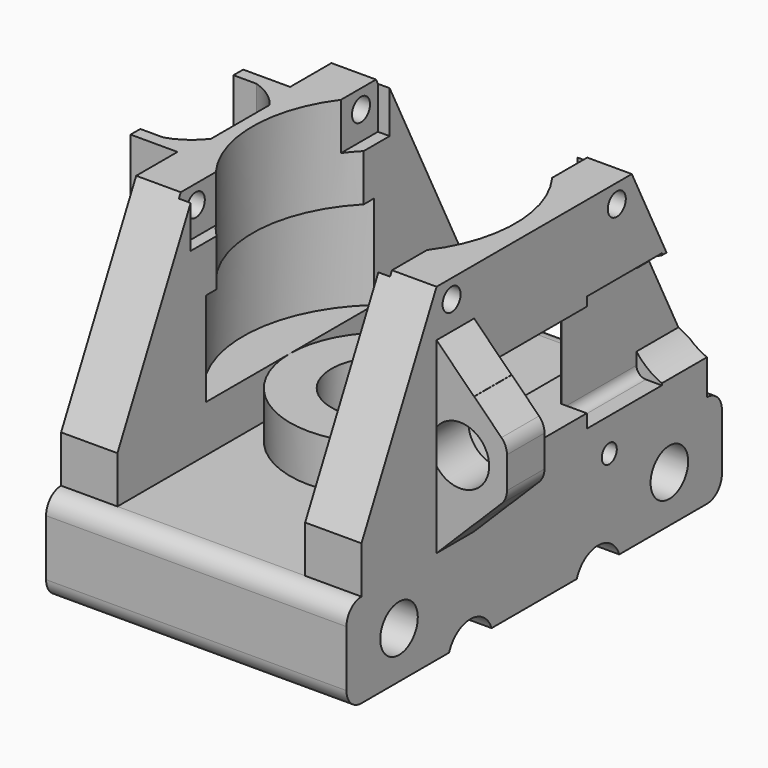
from build123d import *

# Parameters (mm, degrees)
CYLINDER1321_R            = 1.2
CYLINDER1321_DEPTH        = 11
CYLINDER1322_R            = 1.2
CYLINDER1322_DEPTH        = 11
CYLINDER1315_R            = 1.2
CYLINDER1315_DEPTH        = 11
CYLINDER1316_R            = 1.2
CYLINDER1316_DEPTH        = 11
BOX544_W                  = 22.5
BOX544_H                  = 26.5
BOX544_DEPTH              = 5
CYLINDER1311_R            = 14
CYLINDER1311_DEPTH        = 19
CYLINDER1235_R            = 1
CYLINDER1235_DEPTH        = 5
CYLINDER1226_R            = 1
CYLINDER1226_DEPTH        = 11
CYLINDER1225_R            = 1
CYLINDER1225_DEPTH        = 11
BOX510_W                  = 10.4
BOX510_H                  = 12.4
BOX510_DEPTH              = 27
FILLET398_R               = 1
CYLINDER1204_R            = 8
CYLINDER1204_DEPTH        = 27
CYLINDER1206_R            = 6.5
CYLINDER1206_DEPTH        = 17
CYLINDER1205_R            = 8
CYLINDER1205_DEPTH        = 17
CYLINDER1207_R            = 8
CYLINDER1207_DEPTH        = 27
CUT014249_PLACEMENT_ANGLE = 180
CYLINDER1215_R            = 2
CYLINDER1215_DEPTH        = 16
BOX513_W                  = 6
BOX513_H                  = 15
BOX513_DEPTH              = 21
CHAMFER007_SIZE           = 1.5
CYLINDER1213_R            = 5.5
CYLINDER1213_DEPTH        = 16
CYLINDER1203_R            = 15
CYLINDER1203_DEPTH        = 10
BOX509_W                  = 6
BOX509_H                  = 46
BOX509_DEPTH              = 25
CHAMFER006_1_SIZE2        = 10
CHAMFER006_1_SIZE         = 20
CHAMFER006_2_SIZE2        = 10
CHAMFER006_2_SIZE         = 20
CYLINDER1297_R            = 4
CYLINDER1297_DEPTH        = 8
CYLINDER1296_R            = 4
CYLINDER1296_DEPTH        = 8
CYLINDER1295_R            = 2.5
CYLINDER1295_DEPTH        = 60
CYLINDER1294_R            = 2.5
CYLINDER1294_DEPTH        = 60
CYLINDER1289_R            = 3
CYLINDER1289_DEPTH        = 33.5
CYLINDER1287_R            = 5.6
CYLINDER1287_DEPTH        = 4.5
CYLINDER1288_R            = 10
CYLINDER1288_DEPTH        = 5
CYLINDER1285_R            = 3
CYLINDER1285_DEPTH        = 60
CYLINDER1284_R            = 3
CYLINDER1284_DEPTH        = 60
CYLINDER1214_R            = 5.5
CYLINDER1214_DEPTH        = 16
BOX_W                     = 32
BOX_H                     = 50
BOX_DEPTH                 = 10
FILLET413_R               = 2
CYLINDER1218_R            = 3.1
CYLINDER1218_DEPTH        = 5
BOX511_W                  = 10.4
BOX511_H                  = 12.4
BOX511_DEPTH              = 27
FILLET399_R               = 1
CYLINDER1208_R            = 8
CYLINDER1208_DEPTH        = 27
CYLINDER1210_R            = 6.5
CYLINDER1210_DEPTH        = 17
CYLINDER1209_R            = 8
CYLINDER1209_DEPTH        = 17
CYLINDER1211_R            = 8
CYLINDER1211_DEPTH        = 27
CUT014252_PLACEMENT_ANGLE = 90
BOX508_W                  = 22
BOX508_H                  = 15
BOX508_DEPTH              = 10
CYLINDER1216_R            = 15
CYLINDER1216_DEPTH        = 10
BOX506_W                  = 6
BOX506_H                  = 46
BOX506_DEPTH              = 25
CHAMFER005_1_SIZE2        = 10
CHAMFER005_1_SIZE         = 20
CHAMFER005_2_SIZE2        = 10
CHAMFER005_2_SIZE         = 20
BOX514_W                  = 7.5
BOX514_H                  = 5
BOX514_DEPTH              = 12
CHAMFER038_SIZE           = 3.99
CHAMFER039_SIZE           = 3.49
FILLET414_R               = 2


with BuildPart() as cylinder1321:
    # Cylinder1321 → Cylinder1321 (new body)
    with BuildSketch(Plane(origin=(439, 96, 121), x_dir=(0, 0, -1), z_dir=(1, 0, 0))):
        Circle(CYLINDER1321_R)
    extrude(amount=CYLINDER1321_DEPTH)


with BuildPart() as fusion248002050193:
    # Cylinder1322 → Cylinder1322 (new body)
    with BuildSketch(Plane(origin=(439, 74, 121), x_dir=(0, 0, -1), z_dir=(1, 0, 0))):
        Circle(CYLINDER1322_R)
    extrude(amount=CYLINDER1322_DEPTH)

    # Fusion248002050193: union Cylinder1321
    add(cylinder1321.part)


with BuildPart() as fusion248002050193_1:
    # Fusion248002050193 placement: moved
    add(fusion248002050193.part.moved(Location((28, 0, 7))))


with BuildPart() as cylinder1315:
    # Cylinder1315 → Cylinder1315 (new body)
    with BuildSketch(Plane(origin=(439, 96, 121), x_dir=(0, 0, -1), z_dir=(1, 0, 0))):
        Circle(CYLINDER1315_R)
    extrude(amount=CYLINDER1315_DEPTH)


with BuildPart() as fusion248002050194:
    # Cylinder1316 → Cylinder1316 (new body)
    with BuildSketch(Plane(origin=(439, 74, 121), x_dir=(0, 0, -1), z_dir=(1, 0, 0))):
        Circle(CYLINDER1316_R)
    extrude(amount=CYLINDER1316_DEPTH)

    # Fusion248002050189: union Cylinder1315
    add(cylinder1315.part)


with BuildPart() as fusion248002050194_1:
    # Fusion248002050189 placement: moved
    add(fusion248002050194.part.moved(Location((7, 0, 7))))

    # Fusion248002050194: union Fusion248002050193
    add(fusion248002050193_1.part)


with BuildPart() as cube770:
    # Box544 → Box544 (new body)
    with BuildSketch(Plane(origin=(450.75, 71.75, 125), x_dir=(1, 0, 0), z_dir=(0, 0, 1))):
        with Locations((11.25, 13.25)):
            Rectangle(BOX544_W, BOX544_H)
    extrude(amount=BOX544_DEPTH)


with BuildPart() as fusion248002050202:
    # Cylinder1311 → Cylinder1311 (new body)
    with BuildSketch(Plane(origin=(462, 85, 112), x_dir=(1, 0, 0), z_dir=(0, 0, 1))):
        Circle(CYLINDER1311_R)
    extrude(amount=CYLINDER1311_DEPTH)

    # Fusion248002050202: union Cube770
    add(cube770.part)


with BuildPart() as cylinder1235:
    # Cylinder1235 → Cylinder1235 (new body)
    with BuildSketch(Plane(origin=(473, 95, 105), x_dir=(0, 0, -1), z_dir=(1, 0, 0))):
        Circle(CYLINDER1235_R)
    extrude(amount=CYLINDER1235_DEPTH)


with BuildPart() as cylinder1226:
    # Cylinder1226 → Cylinder1226 (new body)
    with BuildSketch(Plane(origin=(439, 96, 121), x_dir=(0, 0, -1), z_dir=(1, 0, 0))):
        Circle(CYLINDER1226_R)
    extrude(amount=CYLINDER1226_DEPTH)


with BuildPart() as fusion248002050135:
    # Cylinder1225 → Cylinder1225 (new body)
    with BuildSketch(Plane(origin=(439, 74, 121), x_dir=(0, 0, -1), z_dir=(1, 0, 0))):
        Circle(CYLINDER1225_R)
    extrude(amount=CYLINDER1225_DEPTH)

    # Fusion248002050135: union Cylinder1226
    add(cylinder1226.part)


with BuildPart() as fillet398:
    # Box510 → Box510 (new body)
    with BuildSketch(Plane(origin=(-5.2, -6.2, 0), x_dir=(1, 0, 0), z_dir=(0, 0, 1))):
        with Locations((5.2, 6.2)):
            Rectangle(BOX510_W, BOX510_H)
    extrude(amount=BOX510_DEPTH)

    # Fillet398
    fillet398_edges = [fillet398.edges().sort_by_distance(p)[0] for p in [
        (-5.2, -6.2, 13.5),
        (-5.2, 6.2, 13.5),
        (5.2, -6.2, 13.5),
        (5.2, 6.2, 13.5),
    ]]
    fillet(fillet398_edges, radius=FILLET398_R)


with BuildPart() as cut014248:
    # Cylinder1204 → Cylinder1204 (new body)
    with BuildSketch(Plane.XY):
        Circle(CYLINDER1204_R)
    extrude(amount=CYLINDER1204_DEPTH)

    # Cut014248: cut Fillet398
    add(fillet398.part, mode=Mode.SUBTRACT)


with BuildPart() as cylinder1417:
    # Cylinder1206 → Cylinder1206 (new body)
    with BuildSketch(Plane.XY):
        Circle(CYLINDER1206_R)
    extrude(amount=CYLINDER1206_DEPTH)


with BuildPart() as fusion248002050126:
    # Cylinder1205 → Cylinder1205 (new body)
    with BuildSketch(Plane.XY):
        Circle(CYLINDER1205_R)
    extrude(amount=CYLINDER1205_DEPTH)

    # Cut014247: cut Cylinder1417
    add(cylinder1417.part, mode=Mode.SUBTRACT)

    # Fusion248002050126: union Cut014248
    add(cut014248.part)


with BuildPart() as bucket_opening_motor001:
    # Cylinder1207 → Cylinder1207 (new body)
    with BuildSketch(Plane.XY):
        Circle(CYLINDER1207_R)
    extrude(amount=CYLINDER1207_DEPTH)

    # Cut014249: cut Fusion248002050126
    add(fusion248002050126.part, mode=Mode.SUBTRACT)


with BuildPart() as bucket_opening_motor001_1:
    # Cut014249 placement: moved
    add(bucket_opening_motor001.part.moved(Location((441.5, 85, 137))).rotate(Axis((441.5, 85, 137), (1, 0, 0)), CUT014249_PLACEMENT_ANGLE))


with BuildPart() as cylinder1215:
    # Cylinder1215 → Cylinder1215 (new body)
    with BuildSketch(Plane(origin=(441.5, 85, 94), x_dir=(1, 0, 0), z_dir=(0, 0, 1))):
        Circle(CYLINDER1215_R)
    extrude(amount=CYLINDER1215_DEPTH)


with BuildPart() as cut014257:
    # Box513 → Box513 (new body)
    with BuildSketch(Plane(origin=(441, 77.5, 109), x_dir=(1, 0, 0), z_dir=(0, 0, 1))):
        with Locations((3, 7.5)):
            Rectangle(BOX513_W, BOX513_H)
    extrude(amount=BOX513_DEPTH)

    # Chamfer007
    chamfer007_edges = [cut014257.edges().sort_by_distance(p)[0] for p in [
        (444, 77.5, 109),
        (444, 92.5, 109),
    ]]
    chamfer(chamfer007_edges, length=CHAMFER007_SIZE)

    # Cut014257: cut Cylinder1215
    add(cylinder1215.part, mode=Mode.SUBTRACT)


with BuildPart() as cylinder1213:
    # Cylinder1213 → Cylinder1213 (new body)
    with BuildSketch(Plane(origin=(441.5, 85, 94), x_dir=(1, 0, 0), z_dir=(0, 0, 1))):
        Circle(CYLINDER1213_R)
    extrude(amount=CYLINDER1213_DEPTH)


with BuildPart() as cylinder1203:
    # Cylinder1203 → Cylinder1203 (new body)
    with BuildSketch(Plane(origin=(462, 85, 110), x_dir=(1, 0, 0), z_dir=(0, 0, 1))):
        Circle(CYLINDER1203_R)
    extrude(amount=CYLINDER1203_DEPTH)


with BuildPart() as cut014292:
    # Box509 → Box509 (new body)
    with BuildSketch(Plane(origin=(472, 62, 105), x_dir=(1, 0, 0), z_dir=(0, 0, 1))):
        with Locations((3, 23)):
            Rectangle(BOX509_W, BOX509_H)
    extrude(amount=BOX509_DEPTH)

    # Chamfer006 1
    chamfer006_1_edges = [cut014292.edges().sort_by_distance(p)[0] for p in [
        (475, 108, 130),
    ]]
    chamfer006_1_side = cut014292.faces().sort_by_distance((475, 108, 117.5))[0]
    chamfer(chamfer006_1_edges, length=CHAMFER006_1_SIZE, length2=CHAMFER006_1_SIZE2, reference=chamfer006_1_side)

    # Chamfer006 2
    chamfer006_2_edges = [cut014292.edges().sort_by_distance(p)[0] for p in [
        (475, 62, 130),
    ]]
    chamfer006_2_side = cut014292.faces().sort_by_distance((475, 62, 117.5))[0]
    chamfer(chamfer006_2_edges, length=CHAMFER006_2_SIZE, length2=CHAMFER006_2_SIZE2, reference=chamfer006_2_side)


with BuildPart() as cut014292_1:
    # Chamfer006 placement: moved
    add(cut014292.part.moved(Location((-26, 0, 0))))

    # Cut014245: cut Cylinder1203
    add(cylinder1203.part, mode=Mode.SUBTRACT)

    # Cut014255: cut Cylinder1213
    add(cylinder1213.part, mode=Mode.SUBTRACT)

    # Fusion248002050128: union Cut014257
    add(cut014257.part)

    # Cut014258: cut bucket-opening-motor001
    add(bucket_opening_motor001_1.part, mode=Mode.SUBTRACT)

    # Cut014292: cut Fusion248002050135
    add(fusion248002050135.part, mode=Mode.SUBTRACT)


with BuildPart() as cylinder1297:
    # Cylinder1297 → Cylinder1297 (new body)
    with BuildSketch(Plane(origin=(432, 67, 100), x_dir=(0, 0, -1), z_dir=(1, 0, 0))):
        Circle(CYLINDER1297_R)
    extrude(amount=CYLINDER1297_DEPTH)


with BuildPart() as fusion248002050174:
    # Cylinder1296 → Cylinder1296 (new body)
    with BuildSketch(Plane(origin=(432, 103, 100), x_dir=(0, 0, -1), z_dir=(1, 0, 0))):
        Circle(CYLINDER1296_R)
    extrude(amount=CYLINDER1296_DEPTH)

    # Fusion248002050174: union Cylinder1297
    add(cylinder1297.part)


with BuildPart() as fusion248002050174_1:
    # Fusion248002050174 placement: moved
    add(fusion248002050174.part.moved(Location((14, 0, 0))))


with BuildPart() as cylinder1295:
    # Cylinder1295 → Cylinder1295 (new body)
    with BuildSketch(Plane(origin=(432, 67, 100), x_dir=(0, 0, -1), z_dir=(1, 0, 0))):
        Circle(CYLINDER1295_R)
    extrude(amount=CYLINDER1295_DEPTH)


with BuildPart() as fusion248002050173:
    # Cylinder1294 → Cylinder1294 (new body)
    with BuildSketch(Plane(origin=(432, 103, 100), x_dir=(0, 0, -1), z_dir=(1, 0, 0))):
        Circle(CYLINDER1294_R)
    extrude(amount=CYLINDER1294_DEPTH)

    # Fusion248002050173: union Cylinder1295
    add(cylinder1295.part)


with BuildPart() as cylinder1289:
    # Cylinder1289 → Cylinder1289 (new body)
    with BuildSketch(Plane(origin=(462, 85, 93.75), x_dir=(1, 0, 0), z_dir=(0, 0, 1))):
        Circle(CYLINDER1289_R)
    extrude(amount=CYLINDER1289_DEPTH)


with BuildPart() as cylinder1287:
    # Cylinder1287 → Cylinder1287 (new body)
    with BuildSketch(Plane(origin=(462, 85, 105.5), x_dir=(1, 0, 0), z_dir=(0, 0, 1))):
        Circle(CYLINDER1287_R)
    extrude(amount=CYLINDER1287_DEPTH)


with BuildPart() as cut014299:
    # Cylinder1288 → Cylinder1288 (new body)
    with BuildSketch(Plane(origin=(462, 85, 105), x_dir=(1, 0, 0), z_dir=(0, 0, 1))):
        Circle(CYLINDER1288_R)
    extrude(amount=CYLINDER1288_DEPTH)

    # Cut014299: cut Cylinder1287
    add(cylinder1287.part, mode=Mode.SUBTRACT)


with BuildPart() as cylinder1285:
    # Cylinder1285 → Cylinder1285 (new body)
    with BuildSketch(Plane(origin=(432, 93.5, 94), x_dir=(0, 0, -1), z_dir=(1, 0, 0))):
        Circle(CYLINDER1285_R)
    extrude(amount=CYLINDER1285_DEPTH)


with BuildPart() as fusion248002050169:
    # Cylinder1284 → Cylinder1284 (new body)
    with BuildSketch(Plane(origin=(432, 76.5, 94), x_dir=(0, 0, -1), z_dir=(1, 0, 0))):
        Circle(CYLINDER1284_R)
    extrude(amount=CYLINDER1284_DEPTH)

    # Fusion248002050169: union Cylinder1285
    add(cylinder1285.part)


with BuildPart() as cylinder1214:
    # Cylinder1214 → Cylinder1214 (new body)
    with BuildSketch(Plane(origin=(441.5, 85, 94), x_dir=(1, 0, 0), z_dir=(0, 0, 1))):
        Circle(CYLINDER1214_R)
    extrude(amount=CYLINDER1214_DEPTH)


with BuildPart() as fillet413:
    # Box → Box (new body)
    with BuildSketch(Plane(origin=(446, 60, 95), x_dir=(1, 0, 0), z_dir=(0, 0, 1))):
        with Locations((16, 25)):
            Rectangle(BOX_W, BOX_H)
    extrude(amount=BOX_DEPTH)

    # Cut014325: cut Cylinder1214
    add(cylinder1214.part, mode=Mode.SUBTRACT)

    # Cut014326: cut Fusion248002050169
    add(fusion248002050169.part, mode=Mode.SUBTRACT)

    # Fusion248002050203: union Cut014299
    add(cut014299.part)

    # Cut014327: cut Cylinder1289
    add(cylinder1289.part, mode=Mode.SUBTRACT)

    # Cut014328: cut Fusion248002050173
    add(fusion248002050173.part, mode=Mode.SUBTRACT)

    # Cut014329: cut Fusion248002050174
    add(fusion248002050174_1.part, mode=Mode.SUBTRACT)

    # Fillet413
    fillet413_edges = [fillet413.edges().sort_by_distance(p)[0] for p in [
        (462, 60, 105),
        (462, 110, 105),
        (462, 60, 95),
        (462, 110, 95),
    ]]
    fillet(fillet413_edges, radius=FILLET413_R)


with BuildPart() as cylinder1218:
    # Cylinder1218 → Cylinder1218 (new body)
    with BuildSketch(Plane(origin=(480.5, 77, 115), x_dir=(1, 0, 0), z_dir=(0, -1, 0))):
        Circle(CYLINDER1218_R)
    extrude(amount=CYLINDER1218_DEPTH)


with BuildPart() as fillet399:
    # Box511 → Box511 (new body)
    with BuildSketch(Plane(origin=(-5.2, -6.2, 0), x_dir=(1, 0, 0), z_dir=(0, 0, 1))):
        with Locations((5.2, 6.2)):
            Rectangle(BOX511_W, BOX511_H)
    extrude(amount=BOX511_DEPTH)

    # Fillet399
    fillet399_edges = [fillet399.edges().sort_by_distance(p)[0] for p in [
        (-5.2, -6.2, 13.5),
        (-5.2, 6.2, 13.5),
        (5.2, -6.2, 13.5),
        (5.2, 6.2, 13.5),
    ]]
    fillet(fillet399_edges, radius=FILLET399_R)


with BuildPart() as cut014251:
    # Cylinder1208 → Cylinder1208 (new body)
    with BuildSketch(Plane.XY):
        Circle(CYLINDER1208_R)
    extrude(amount=CYLINDER1208_DEPTH)

    # Cut014251: cut Fillet399
    add(fillet399.part, mode=Mode.SUBTRACT)


with BuildPart() as cylinder1421:
    # Cylinder1210 → Cylinder1210 (new body)
    with BuildSketch(Plane.XY):
        Circle(CYLINDER1210_R)
    extrude(amount=CYLINDER1210_DEPTH)


with BuildPart() as fusion248002050127:
    # Cylinder1209 → Cylinder1209 (new body)
    with BuildSketch(Plane.XY):
        Circle(CYLINDER1209_R)
    extrude(amount=CYLINDER1209_DEPTH)

    # Cut014250: cut Cylinder1421
    add(cylinder1421.part, mode=Mode.SUBTRACT)

    # Fusion248002050127: union Cut014251
    add(cut014251.part)


with BuildPart() as bucket_turning_motor001:
    # Cylinder1211 → Cylinder1211 (new body)
    with BuildSketch(Plane.XY):
        Circle(CYLINDER1211_R)
    extrude(amount=CYLINDER1211_DEPTH)

    # Cut014252: cut Fusion248002050127
    add(fusion248002050127.part, mode=Mode.SUBTRACT)


with BuildPart() as bucket_turning_motor001_1:
    # Cut014252 placement: moved
    add(bucket_turning_motor001.part.moved(Location((480.5, 119, 114.75))).rotate(Axis((480.5, 119, 114.75), (1, 0, 0)), CUT014252_PLACEMENT_ANGLE))


with BuildPart() as cube734:
    # Box508 → Box508 (new body)
    with BuildSketch(Plane(origin=(462, 77, 110), x_dir=(1, 0, 0), z_dir=(0, 0, 1))):
        with Locations((11, 7.5)):
            Rectangle(BOX508_W, BOX508_H)
    extrude(amount=BOX508_DEPTH)


with BuildPart() as cylinder1216:
    # Cylinder1216 → Cylinder1216 (new body)
    with BuildSketch(Plane(origin=(462, 85, 110), x_dir=(1, 0, 0), z_dir=(0, 0, 1))):
        Circle(CYLINDER1216_R)
    extrude(amount=CYLINDER1216_DEPTH)


with BuildPart() as cut014261:
    # Box506 → Box506 (new body)
    with BuildSketch(Plane(origin=(472, 62, 105), x_dir=(1, 0, 0), z_dir=(0, 0, 1))):
        with Locations((3, 23)):
            Rectangle(BOX506_W, BOX506_H)
    extrude(amount=BOX506_DEPTH)

    # Chamfer005 1
    chamfer005_1_edges = [cut014261.edges().sort_by_distance(p)[0] for p in [
        (475, 108, 130),
    ]]
    chamfer005_1_side = cut014261.faces().sort_by_distance((475, 108, 117.5))[0]
    chamfer(chamfer005_1_edges, length=CHAMFER005_1_SIZE, length2=CHAMFER005_1_SIZE2, reference=chamfer005_1_side)

    # Chamfer005 2
    chamfer005_2_edges = [cut014261.edges().sort_by_distance(p)[0] for p in [
        (475, 62, 130),
    ]]
    chamfer005_2_side = cut014261.faces().sort_by_distance((475, 62, 117.5))[0]
    chamfer(chamfer005_2_edges, length=CHAMFER005_2_SIZE, length2=CHAMFER005_2_SIZE2, reference=chamfer005_2_side)

    # Cut014259: cut Cylinder1216
    add(cylinder1216.part, mode=Mode.SUBTRACT)

    # Cut014260: cut Cube734
    add(cube734.part, mode=Mode.SUBTRACT)

    # Cut014261: cut bucket-turning-motor001
    add(bucket_turning_motor001_1.part, mode=Mode.SUBTRACT)


with BuildPart() as bucket_body:
    # Box514 → Box514 (new body)
    with BuildSketch(Plane(origin=(478, 72, 109), x_dir=(1, 0, 0), z_dir=(0, 0, 1))):
        with Locations((3.75, 2.5)):
            Rectangle(BOX514_W, BOX514_H)
    extrude(amount=BOX514_DEPTH)

    # Fusion248002050204: union Cut014261
    add(cut014261.part)

    # Chamfer038
    chamfer038_edges = [bucket_body.edges().sort_by_distance(p)[0] for p in [
        (478, 74.5, 121),
        (478, 74.5, 109),
    ]]
    chamfer(chamfer038_edges, length=CHAMFER038_SIZE)

    # Chamfer039
    chamfer039_edges = [bucket_body.edges().sort_by_distance(p)[0] for p in [
        (485.5, 74.5, 109),
        (485.5, 74.5, 121),
    ]]
    chamfer(chamfer039_edges, length=CHAMFER039_SIZE)

    # Fillet414
    fillet414_edges = [bucket_body.edges().sort_by_distance(p)[0] for p in [
        (485.5, 74.5, 112.49),
        (485.5, 74.5, 117.51),
    ]]
    fillet(fillet414_edges, radius=FILLET414_R)

    # Cut014330: cut Cylinder1218
    add(cylinder1218.part, mode=Mode.SUBTRACT)

    # Fusion248002050207: union Cut014292, Fillet413
    add(cut014292_1.part)
    add(fillet413.part)

    # Cut014331: cut Cylinder1235
    add(cylinder1235.part, mode=Mode.SUBTRACT)

    # Cut014332: cut Fusion248002050202
    add(fusion248002050202.part, mode=Mode.SUBTRACT)

    # Cut014333: cut Fusion248002050194
    add(fusion248002050194_1.part, mode=Mode.SUBTRACT)


solid = bucket_body.part
